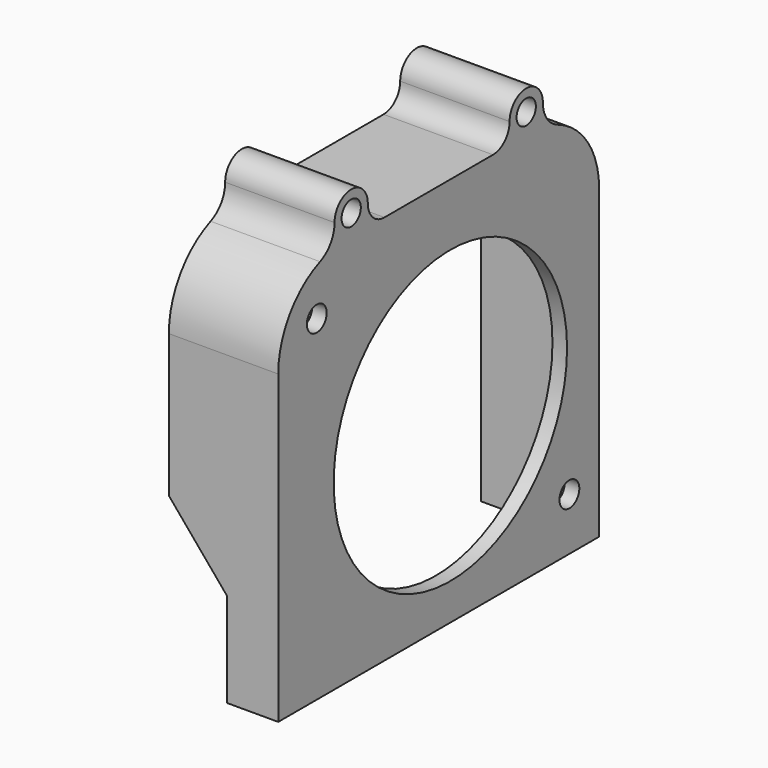
from build123d import *

# Parameters (mm, degrees)
PAD043_DEPTH    = 15
POCKET057_DEPTH = 13
SKETCH118_R     = 1.65
SKETCH118_R_2   = 1.7
SKETCH118_R_3   = 20
POCKET058_DEPTH = 15
POCKET059_DEPTH = 5


with BuildPart() as part:
    # Sketch116 → Pad043 (new body)
    with BuildSketch(Plane.YZ):
        with BuildLine():
            Line((27.5, -9.253658), (27.5, -51.25))
            Line((27.5, -51.25), (-27.5, -51.25))
            Line((-27.5, -51.25), (-27.5, -9.253658))
            ThreePointArc((-20.340323, 1.39583), (-25.543681, -2.837417), (-27.5, -9.253658))
            ThreePointArc((-20.340323, 1.39583), (-18.530459, 2.868264), (-17.85, 5.1))
            ThreePointArc((-12.15, 5.1), (-15, 7.95), (-17.85, 5.1))
            ThreePointArc((-12.15, 5.1), (-11.315254, 3.084746), (-9.3, 2.25))
            Line((-9.3, 2.25), (9.3, 2.25))
            ThreePointArc((9.3, 2.25), (11.315254, 3.084746), (12.15, 5.1))
            ThreePointArc((17.85, 5.1), (15, 7.95), (12.15, 5.1))
            ThreePointArc((17.85, 5.1), (18.530459, 2.868264), (20.340323, 1.39583))
            ThreePointArc((27.5, -9.253658), (25.543681, -2.837417), (20.340323, 1.39583))
        make_face()
    extrude(amount=-PAD043_DEPTH)

    # Sketch117 (on Face14 of Pad043) → Pocket057 (cut)
    with BuildSketch(Plane(origin=(-15, 0, 0), x_dir=(0, -1, 0), z_dir=(-1, 0, 0))):
        with BuildLine():
            Line((-26, -9.253658), (-26, -51.25))
            Line((-26, -51.25), (26, -51.25))
            Line((26, -51.25), (26, -9.253658))
            ThreePointArc((26, -9.253658), (23.071068, -2.18259), (16, 0.746342))
            Line((-16, 0.746342), (16, 0.746342))
            ThreePointArc((-16, 0.746342), (-23.071068, -2.18259), (-26, -9.253658))
        make_face()
    extrude(amount=-POCKET057_DEPTH, mode=Mode.SUBTRACT)

    # Sketch118 (on Face4 of Pocket057) → Pocket058 (cut)
    with BuildSketch(Plane.YZ):
        with Locations((-15, 5.1)):
            Circle(SKETCH118_R)
        with Locations((15, 5.1)):
            Circle(SKETCH118_R)
        with Locations((22.4, -44.05)):
            Circle(SKETCH118_R_2)
        with Locations((-20.9, -5.25)):
            Circle(SKETCH118_R_2)
        with Locations((2, -26.25)):
            Circle(SKETCH118_R_3)
    extrude(amount=-POCKET058_DEPTH, mode=Mode.SUBTRACT)

    # Sketch119 (on Face11 of Pocket058) → Pocket059 (cut)
    with BuildSketch(Plane(origin=(0, -27.5, 0), x_dir=(0, 0, 1), z_dir=(0, -1, 0))):
        Polygon((-51.25, 15), (-28.815971, 15), (-38.35, 7), (-51.25, 7), align=None)
    extrude(amount=-POCKET059_DEPTH, mode=Mode.SUBTRACT)


with BuildPart() as part_1:
    # Body016 placement: moved
    add(part.part.moved(Location((32, 0, 0))))


solid = part_1.part
